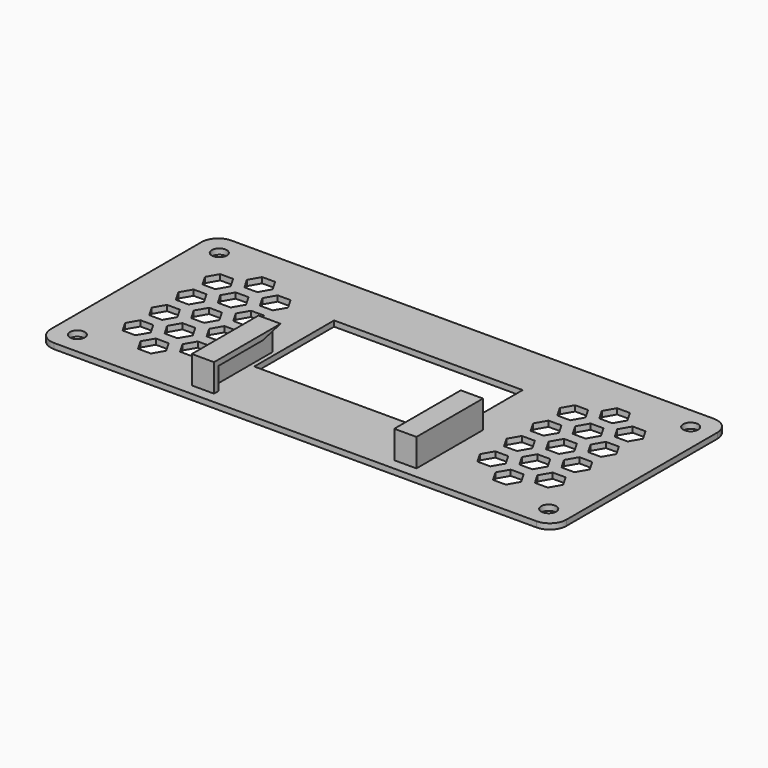
from build123d import *

# Parameters (mm, degrees)
SKETCH_R                        = 1.35
PAD_DEPTH                       = 1
SKETCH002_W                     = 4
SKETCH002_H                     = 15
PAD001_DEPTH                    = 5
POCKET_DEPTH                    = 1.5
SKETCH004_W                     = 34
SKETCH004_H                     = 18
POCKET001_DEPTH                 = 5
POCKET002_DEPTH                 = 5
POCKET002_LINEARPATTERN_2_DEPTH = 5
POCKET002_LINEARPATTERN_3_DEPTH = 5
POCKET002_LINEARPATTERN_4_DEPTH = 5


with BuildPart() as part:
    # Sketch → Pad (new body)
    with BuildSketch(Plane.XY):
        with BuildLine():
            Line((-43.5, 20), (43.5, 20))
            ThreePointArc((46.5, 17), (45.62132, 19.12132), (43.5, 20))
            Line((46.5, 17), (46.5, -17))
            ThreePointArc((43.5, -20), (45.62132, -19.12132), (46.5, -17))
            Line((43.5, -20), (-43.5, -20))
            ThreePointArc((-46.5, -17), (-45.62132, -19.12132), (-43.5, -20))
            Line((-46.5, -17), (-46.5, 17))
            ThreePointArc((-43.5, 20), (-45.62132, 19.12132), (-46.5, 17))
        make_face()
        with Locations((-42.5, 16)):
            Circle(SKETCH_R, mode=Mode.SUBTRACT)
        with Locations((42.5, 16)):
            Circle(SKETCH_R, mode=Mode.SUBTRACT)
        with Locations((-42.5, -16)):
            Circle(SKETCH_R, mode=Mode.SUBTRACT)
        with Locations((42.5, -16)):
            Circle(SKETCH_R, mode=Mode.SUBTRACT)
    extrude(amount=PAD_DEPTH)

    # Sketch002 (on Face14 of Pad) → Pad001 (join)
    with BuildSketch(Plane.XY.offset(1)):
        with Locations((18.25, -10.5)):
            Rectangle(SKETCH002_W, SKETCH002_H)
        with Locations((-18.25, -10.5)):
            Rectangle(SKETCH002_W, SKETCH002_H)
    extrude(amount=PAD001_DEPTH)

    # Sketch003 (on Face21 of Pad001) → Pocket (cut)
    with BuildSketch(Plane(origin=(16.25, 0, 0), x_dir=(0, -1, 0), z_dir=(-1, 0, 0))):
        Polygon((3, 6), (3, 1), (17, 1), (17, 5), (7, 5), align=None)
    pocket = extrude(amount=-POCKET_DEPTH, mode=Mode.SUBTRACT)

    # Mirrored: Pocket across YZ
    add(pocket.mirror(Plane.YZ), mode=Mode.SUBTRACT)

    # Sketch004 (on Face5 of Mirrored) → Pocket001 (cut)
    with BuildSketch(Plane.XY.offset(1)):
        with Locations((0, 1)):
            Rectangle(SKETCH004_W, SKETCH004_H)
    extrude(amount=-POCKET001_DEPTH, mode=Mode.SUBTRACT)

    # Sketch001 (on Face14 of Pad) → Pocket002 (cut)
    with BuildSketch(Plane.XY.offset(1)):
        Polygon((-39.5, -9), (-38.339746, -11.009619), (-36.019238, -11.009619), (-34.858984, -9), (-36.019238, -6.990381), (-38.339746, -6.990381), align=None)
        Polygon((-29.141016, -9), (-27.980762, -11.009619), (-25.660254, -11.009619), (-24.5, -9), (-25.660254, -6.990381), (-27.980762, -6.990381), align=None)
        Polygon((-33.160254, -14), (-30.839746, -14), (-29.679492, -11.990381), (-30.839746, -9.980762), (-33.160254, -9.980762), (-34.320508, -11.990381), align=None)
        Polygon((-30.839746, -4), (-33.160254, -4), (-34.320508, -6.009619), (-33.160254, -8.019238), (-30.839746, -8.019238), (-29.679492, -6.009619), align=None)
    pocket002 = extrude(amount=-POCKET002_DEPTH, mode=Mode.SUBTRACT)

    # Sketch001 LinearPattern 2 → Pocket002 LinearPattern 2 (cut)
    with BuildSketch(Plane(origin=(0, 6, 1), x_dir=(1, 0, 0), z_dir=(0, 0, 1))):
        Polygon((-39.5, -9), (-38.339746, -11.009619), (-36.019238, -11.009619), (-34.858984, -9), (-36.019238, -6.990381), (-38.339746, -6.990381), align=None)
        Polygon((-29.141016, -9), (-27.980762, -11.009619), (-25.660254, -11.009619), (-24.5, -9), (-25.660254, -6.990381), (-27.980762, -6.990381), align=None)
        Polygon((-33.160254, -14), (-30.839746, -14), (-29.679492, -11.990381), (-30.839746, -9.980762), (-33.160254, -9.980762), (-34.320508, -11.990381), align=None)
        Polygon((-30.839746, -4), (-33.160254, -4), (-34.320508, -6.009619), (-33.160254, -8.019238), (-30.839746, -8.019238), (-29.679492, -6.009619), align=None)
    pocket002_linearpattern_2 = extrude(amount=-POCKET002_LINEARPATTERN_2_DEPTH, mode=Mode.SUBTRACT)

    # Sketch001 LinearPattern 3 → Pocket002 LinearPattern 3 (cut)
    with BuildSketch(Plane(origin=(0, 12, 1), x_dir=(1, 0, 0), z_dir=(0, 0, 1))):
        Polygon((-39.5, -9), (-38.339746, -11.009619), (-36.019238, -11.009619), (-34.858984, -9), (-36.019238, -6.990381), (-38.339746, -6.990381), align=None)
        Polygon((-29.141016, -9), (-27.980762, -11.009619), (-25.660254, -11.009619), (-24.5, -9), (-25.660254, -6.990381), (-27.980762, -6.990381), align=None)
        Polygon((-33.160254, -14), (-30.839746, -14), (-29.679492, -11.990381), (-30.839746, -9.980762), (-33.160254, -9.980762), (-34.320508, -11.990381), align=None)
        Polygon((-30.839746, -4), (-33.160254, -4), (-34.320508, -6.009619), (-33.160254, -8.019238), (-30.839746, -8.019238), (-29.679492, -6.009619), align=None)
    pocket002_linearpattern_3 = extrude(amount=-POCKET002_LINEARPATTERN_3_DEPTH, mode=Mode.SUBTRACT)

    # Sketch001 LinearPattern 4 → Pocket002 LinearPattern 4 (cut)
    with BuildSketch(Plane(origin=(0, 18, 1), x_dir=(1, 0, 0), z_dir=(0, 0, 1))):
        Polygon((-39.5, -9), (-38.339746, -11.009619), (-36.019238, -11.009619), (-34.858984, -9), (-36.019238, -6.990381), (-38.339746, -6.990381), align=None)
        Polygon((-29.141016, -9), (-27.980762, -11.009619), (-25.660254, -11.009619), (-24.5, -9), (-25.660254, -6.990381), (-27.980762, -6.990381), align=None)
        Polygon((-33.160254, -14), (-30.839746, -14), (-29.679492, -11.990381), (-30.839746, -9.980762), (-33.160254, -9.980762), (-34.320508, -11.990381), align=None)
        Polygon((-30.839746, -4), (-33.160254, -4), (-34.320508, -6.009619), (-33.160254, -8.019238), (-30.839746, -8.019238), (-29.679492, -6.009619), align=None)
    pocket002_linearpattern_4 = extrude(amount=-POCKET002_LINEARPATTERN_4_DEPTH, mode=Mode.SUBTRACT)

    # Mirrored001: Pocket002, Pocket002 LinearPattern 2, Pocket002 LinearPattern 3, Pocket002 LinearPattern 4 across Sketch001 V_Axis
    add(pocket002.mirror(Plane(origin=(0, 0, 1), x_dir=(0, 0, 1), z_dir=(1, 0, 0))), mode=Mode.SUBTRACT)
    add(pocket002_linearpattern_2.mirror(Plane(origin=(0, 0, 1), x_dir=(0, 0, 1), z_dir=(1, 0, 0))), mode=Mode.SUBTRACT)
    add(pocket002_linearpattern_3.mirror(Plane(origin=(0, 0, 1), x_dir=(0, 0, 1), z_dir=(1, 0, 0))), mode=Mode.SUBTRACT)
    add(pocket002_linearpattern_4.mirror(Plane(origin=(0, 0, 1), x_dir=(0, 0, 1), z_dir=(1, 0, 0))), mode=Mode.SUBTRACT)


solid = part.part
